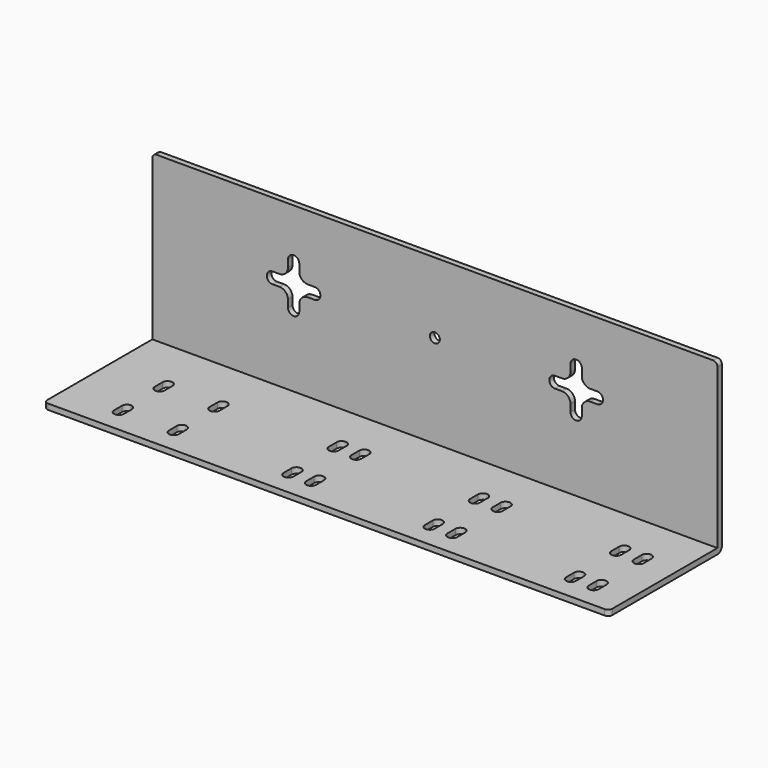
from build123d import *

# Parameters (mm, degrees)
F1_DEPTH = 100
F3_DEPTH = 60.001
F4_R     = 1.5
F5_R     = 2
F6_R     = 1.75
F6_W     = 2
F6_H     = 2
F7_DEPTH = 2
F8_R     = 3


with BuildPart() as f1:
    # F0 (on Right) → F1 (new body, symmetric)
    with BuildSketch(Plane.YZ):
        Polygon((0, 2), (0, 0), (50, 0), (50, 60), (48, 60), (48, 2), align=None)
    extrude(amount=F1_DEPTH, both=True)

    # F2 (on face) → F3 (cut, through all)
    with BuildSketch(Plane(origin=(0, 0, 0), x_dir=(1, 0, 0), z_dir=(0, 0, -1))):
        with BuildLine():
            Line((-18.25, -11.75), (-18.25, -10))
            Line((-18.25, -10), (-18.25, -8.25))
            ThreePointArc((-18.25, -8.25), (-20, -6.5), (-21.75, -8.25))
            Line((-21.75, -8.25), (-21.75, -11.75))
            ThreePointArc((-21.75, -11.75), (-20, -13.5), (-18.25, -11.75))
        make_face()
        with BuildLine():
            Line((-13.75, -8.25), (-13.75, -10))
            Line((-13.75, -10), (-13.75, -11.75))
            ThreePointArc((-13.75, -11.75), (-12, -13.5), (-10.25, -11.75))
            Line((-10.25, -11.75), (-10.25, -8.25))
            ThreePointArc((-10.25, -8.25), (-12, -6.5), (-13.75, -8.25))
        make_face()
        with BuildLine():
            ThreePointArc((-21.75, -31.75), (-20, -33.5), (-18.25, -31.75))
            Line((-18.25, -31.75), (-18.25, -28.25))
            ThreePointArc((-18.25, -28.25), (-20, -26.5), (-21.75, -28.25))
            Line((-21.75, -28.25), (-21.75, -31.75))
        make_face()
        with BuildLine():
            Line((-10.25, -31.75), (-10.25, -28.25))
            ThreePointArc((-10.25, -28.25), (-12, -26.5), (-13.75, -28.25))
            Line((-13.75, -28.25), (-13.75, -31.75))
            ThreePointArc((-13.75, -31.75), (-12, -33.5), (-10.25, -31.75))
        make_face()
        with BuildLine():
            Line((31.75, -10), (31.75, -8.25))
            ThreePointArc((31.75, -8.25), (30, -6.5), (28.25, -8.25))
            Line((28.25, -8.25), (28.25, -11.75))
            ThreePointArc((28.25, -11.75), (30, -13.5), (31.75, -11.75))
            Line((31.75, -11.75), (31.75, -10))
        make_face()
        with BuildLine():
            Line((39.75, -11.75), (39.75, -8.25))
            ThreePointArc((39.75, -8.25), (38, -6.5), (36.25, -8.25))
            Line((36.25, -8.25), (36.25, -10))
            Line((36.25, -10), (36.25, -11.75))
            ThreePointArc((36.25, -11.75), (38, -13.5), (39.75, -11.75))
        make_face()
        with BuildLine():
            Line((39.75, -31.75), (39.75, -28.25))
            ThreePointArc((39.75, -28.25), (38, -26.5), (36.25, -28.25))
            Line((36.25, -28.25), (36.25, -31.75))
            ThreePointArc((36.25, -31.75), (38, -33.5), (39.75, -31.75))
        make_face()
        with BuildLine():
            ThreePointArc((28.25, -31.75), (30, -33.5), (31.75, -31.75))
            Line((31.75, -31.75), (31.75, -28.25))
            ThreePointArc((31.75, -28.25), (30, -26.5), (28.25, -28.25))
            Line((28.25, -28.25), (28.25, -31.75))
        make_face()
        with BuildLine():
            Line((81.75, -10), (81.75, -8.25))
            ThreePointArc((81.75, -8.25), (80, -6.5), (78.25, -8.25))
            Line((78.25, -8.25), (78.25, -11.75))
            ThreePointArc((78.25, -11.75), (80, -13.5), (81.75, -11.75))
            Line((81.75, -11.75), (81.75, -10))
        make_face()
        with BuildLine():
            Line((89.75, -11.75), (89.75, -8.25))
            ThreePointArc((89.75, -8.25), (88, -6.5), (86.25, -8.25))
            Line((86.25, -8.25), (86.25, -10))
            Line((86.25, -10), (86.25, -11.75))
            ThreePointArc((86.25, -11.75), (88, -13.5), (89.75, -11.75))
        make_face()
        with BuildLine():
            ThreePointArc((78.25, -31.75), (80, -33.5), (81.75, -31.75))
            Line((81.75, -31.75), (81.75, -28.25))
            ThreePointArc((81.75, -28.25), (80, -26.5), (78.25, -28.25))
            Line((78.25, -28.25), (78.25, -31.75))
        make_face()
        with BuildLine():
            Line((89.75, -31.75), (89.75, -28.25))
            ThreePointArc((89.75, -28.25), (88, -26.5), (86.25, -28.25))
            Line((86.25, -28.25), (86.25, -31.75))
            ThreePointArc((86.25, -31.75), (88, -33.5), (89.75, -31.75))
        make_face()
        with BuildLine():
            ThreePointArc((-81.75, -11.75), (-81.2374368671, -12.9874368671), (-80, -13.5))
            ThreePointArc((-80, -13.5), (-78.7625631329, -12.9874368671), (-78.25, -11.75))
            Line((-78.25, -11.75), (-78.25, -8.25))
            ThreePointArc((-78.25, -8.25), (-80, -6.5), (-81.75, -8.25))
            Line((-81.75, -8.25), (-81.75, -11.75))
        make_face()
        with BuildLine():
            Line((-78.25, -29.75), (-78.25, -28))
            Line((-78.25, -28), (-78.25, -26.25))
            ThreePointArc((-78.25, -26.25), (-78.7625631329, -25.0125631329), (-80, -24.5))
            ThreePointArc((-80, -24.5), (-81.2374368671, -25.0125631329), (-81.75, -26.25))
            Line((-81.75, -26.25), (-81.75, -29.75))
            ThreePointArc((-81.75, -29.75), (-80, -31.5), (-78.25, -29.75))
        make_face()
        with BuildLine():
            Line((-62.35, -26.25), (-62.35, -28))
            Line((-62.35, -28), (-62.35, -29.75))
            ThreePointArc((-62.35, -29.75), (-60.6, -31.5), (-58.85, -29.75))
            Line((-58.85, -29.75), (-58.85, -26.25))
            ThreePointArc((-58.85, -26.25), (-60.6, -24.5), (-62.35, -26.25))
        make_face()
        with BuildLine():
            Line((-62.35, -10), (-62.35, -11.75))
            ThreePointArc((-62.35, -11.75), (-60.6, -13.5), (-58.85, -11.75))
            Line((-58.85, -11.75), (-58.85, -8.25))
            ThreePointArc((-58.85, -8.25), (-60.6, -6.5), (-62.35, -8.25))
            Line((-62.35, -8.25), (-62.35, -10))
        make_face()
    extrude(amount=-F3_DEPTH, mode=Mode.SUBTRACT)

    # F4
    f4_edges = [f1.edges().sort_by_distance(p)[0] for p in [
        (100, 0, 1),
        (100, 49, 60),
        (-100, 0, 1),
        (-100, 49, 60),
    ]]
    fillet(f4_edges, radius=F4_R)

    # F5
    f5_edges = [f1.edges().sort_by_distance(p)[0] for p in [
        (0, 50, 0),
    ]]
    fillet(f5_edges, radius=F5_R)

    # F6 (on face) → F7 (cut)
    with BuildSketch(Plane(origin=(0, 50, 0), x_dir=(-1, 0, 0), z_dir=(0, 1, 0))):
        with Locations((0, 35)):
            Circle(F6_R)
        with Locations((-49, 34)):
            Rectangle(F6_W, F6_H)
        with BuildLine():
            Line((-48, 37), (-48, 35))
            Line((-48, 35), (-48, 33))
            Line((-48, 33), (-42.5, 33))
            ThreePointArc((-42.5, 33), (-40.5, 35), (-42.5, 37))
            Line((-42.5, 37), (-48, 37))
        make_face()
        with Locations((-49, 36)):
            Rectangle(F6_W, F6_H)
        with Locations((-51, 34)):
            Rectangle(F6_W, F6_H)
        with Locations((-51, 36)):
            Rectangle(F6_W, F6_H)
        with BuildLine():
            Line((-48, 27.5), (-48, 33))
            Line((-48, 33), (-50, 33))
            Line((-50, 33), (-52, 33))
            Line((-52, 33), (-52, 27.5))
            ThreePointArc((-52, 27.5), (-50, 25.5), (-48, 27.5))
        make_face()
        with BuildLine():
            Line((-50, 37), (-48, 37))
            Line((-48, 37), (-48, 42.5))
            ThreePointArc((-48, 42.5), (-50, 44.5), (-52, 42.5))
            Line((-52, 42.5), (-52, 37))
            Line((-52, 37), (-50, 37))
        make_face()
        with BuildLine():
            Line((-52, 33), (-52, 35))
            Line((-52, 35), (-52, 37))
            Line((-52, 37), (-57.5, 37))
            ThreePointArc((-57.5, 37), (-59.5, 35), (-57.5, 33))
            Line((-57.5, 33), (-52, 33))
        make_face()
        with BuildLine():
            ThreePointArc((48, 27.5), (50, 25.5), (52, 27.5))
            Line((52, 27.5), (52, 33))
            Line((52, 33), (50, 33))
            Line((50, 33), (48, 33))
            Line((48, 33), (48, 27.5))
        make_face()
        with Locations((51, 34)):
            Rectangle(F6_W, F6_H)
        with BuildLine():
            Line((52, 35), (52, 33))
            Line((52, 33), (57.5, 33))
            ThreePointArc((57.5, 33), (59.5, 35), (57.5, 37))
            Line((57.5, 37), (52, 37))
            Line((52, 37), (52, 35))
        make_face()
        with Locations((51, 36)):
            Rectangle(F6_W, F6_H)
        with Locations((49, 34)):
            Rectangle(F6_W, F6_H)
        with BuildLine():
            Line((42.5, 33), (48, 33))
            Line((48, 33), (48, 35))
            Line((48, 35), (48, 37))
            Line((48, 37), (42.5, 37))
            ThreePointArc((42.5, 37), (40.5, 35), (42.5, 33))
        make_face()
        with BuildLine():
            Line((50, 37), (52, 37))
            Line((52, 37), (52, 42.5))
            ThreePointArc((52, 42.5), (50, 44.5), (48, 42.5))
            Line((48, 42.5), (48, 37))
            Line((48, 37), (50, 37))
        make_face()
        with Locations((49, 36)):
            Rectangle(F6_W, F6_H)
        with BuildLine():
            ThreePointArc((148, 27.5), (150, 25.5), (152, 27.5))
            Line((152, 27.5), (152, 33))
            Line((152, 33), (150, 33))
            Line((150, 33), (148, 33))
            Line((148, 33), (148, 27.5))
        make_face()
        with Locations((151, 34)):
            Rectangle(F6_W, F6_H)
        with BuildLine():
            Line((152, 35), (152, 33))
            Line((152, 33), (157.5, 33))
            ThreePointArc((157.5, 33), (159.5, 35), (157.5, 37))
            Line((157.5, 37), (152, 37))
            Line((152, 37), (152, 35))
        make_face()
        with Locations((151, 36)):
            Rectangle(F6_W, F6_H)
        with Locations((149, 34)):
            Rectangle(F6_W, F6_H)
        with BuildLine():
            Line((142.5, 33), (148, 33))
            Line((148, 33), (148, 35))
            Line((148, 35), (148, 37))
            Line((148, 37), (142.5, 37))
            ThreePointArc((142.5, 37), (140.5, 35), (142.5, 33))
        make_face()
        with BuildLine():
            Line((150, 37), (152, 37))
            Line((152, 37), (152, 42.5))
            ThreePointArc((152, 42.5), (150, 44.5), (148, 42.5))
            Line((148, 42.5), (148, 37))
            Line((148, 37), (150, 37))
        make_face()
        with Locations((149, 36)):
            Rectangle(F6_W, F6_H)
    extrude(amount=-F7_DEPTH, mode=Mode.SUBTRACT)

    # F8
    f8_edges = [f1.edges().sort_by_distance(p)[0] for p in [
        (52, 49, 33),
        (48, 49, 33),
        (48, 49, 37),
        (52, 49, 37),
        (-52, 49, 33),
        (-52, 49, 37),
        (-48, 49, 37),
        (-48, 49, 33),
    ]]
    fillet(f8_edges, radius=F8_R)


solid = f1.part
